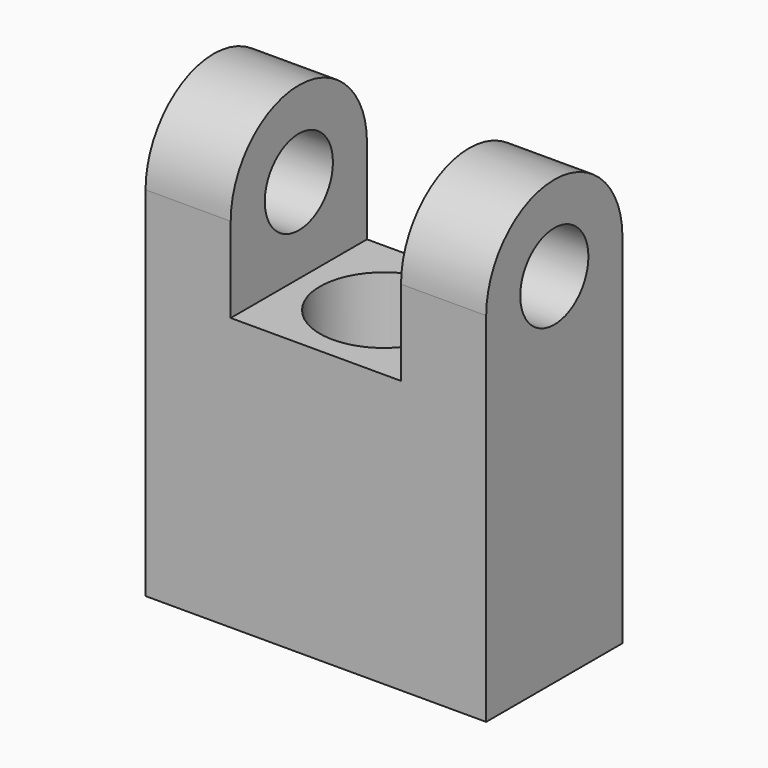
from build123d import *

# Parameters (mm, degrees)
F1_DEPTH = 12.7
F2_R     = 1.5875
F3_DEPTH = 25.4
F5_DEPTH = 25.4
F7_DEPTH = 25.4
F8_R     = 2.3876
F9_DEPTH = 5.08


with BuildPart() as f1:
    # F0 (on Right) → F1 (new body)
    with BuildSketch(Plane.YZ):
        with BuildLine():
            Line((-3.175, 0), (0, 0))
            Line((0, 0), (3.175, 0))
            Line((3.175, 0), (3.175, 13.335))
            ThreePointArc((3.175, 13.335), (0, 16.51), (-3.175, 13.335))
            Line((-3.175, 13.335), (-3.175, 0))
        make_face()
    extrude(amount=F1_DEPTH)

    # F2 (on face) → F3 (cut)
    with BuildSketch(Plane.YZ.offset(12.7)):
        with Locations((0, 13.335)):
            Circle(F2_R)
    extrude(amount=-F3_DEPTH, mode=Mode.SUBTRACT)

    # F4 (on face) → F5 (cut)
    with BuildSketch(Plane.XZ.offset(3.175)):
        Polygon((3.175, 10.16), (6.35, 10.16), (9.525, 10.16), (9.525, 19.146023), (3.175, 19.146023), align=None)
    extrude(amount=-F5_DEPTH, mode=Mode.SUBTRACT)

    # F6 (on face) → F7 (cut)
    with BuildSketch(Plane.XY.offset(10.16)):
        with BuildLine():
            ThreePointArc((7.7851, 0), (6.35, 1.4351), (4.9149, 0))
            Line((4.9149, 0), (7.7851, 0))
        make_face()
        with BuildLine():
            Line((7.7851, 0), (4.9149, 0))
            ThreePointArc((4.9149, 0), (6.35, -1.4351), (7.7851, 0))
        make_face()
    extrude(amount=-F7_DEPTH, mode=Mode.SUBTRACT)

    # F8 (on face) → F9 (cut)
    with BuildSketch(Plane.XY.offset(10.16)):
        with Locations((6.35, 0)):
            Circle(F8_R)
    extrude(amount=-F9_DEPTH, mode=Mode.SUBTRACT)


solid = f1.part
